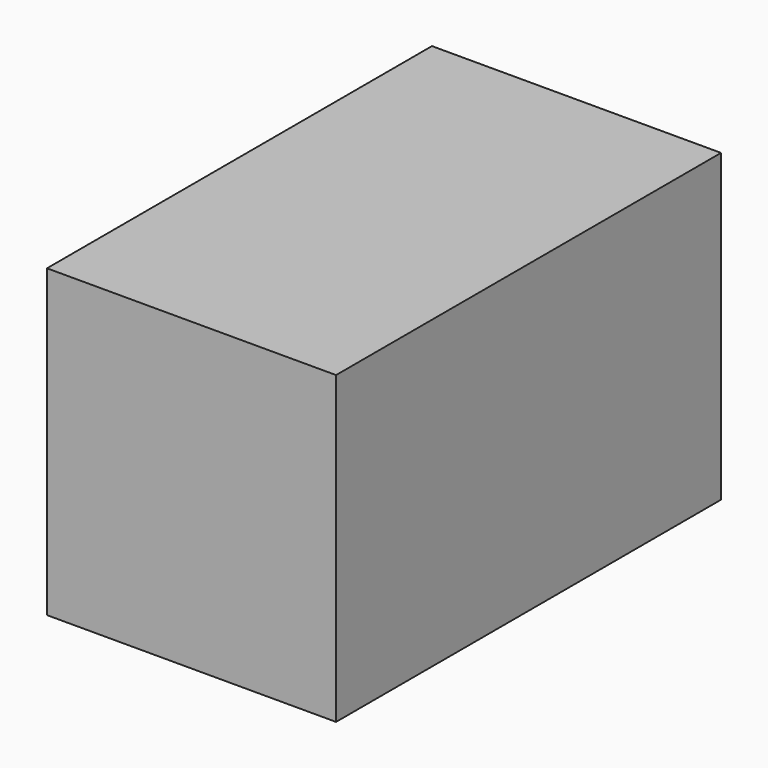
from build123d import *

# Parameters (mm, degrees)
F0_W     = 115.817476064
F0_H     = 99.370021373
F0_H_2   = 22.9579024017
F1_DEPTH = 192.786


with BuildPart() as f1:
    # F0 (on Front) → F1 (new body)
    with BuildSketch(Plane.XZ):
        with Locations((-3.7692058831, -25.52976273)):
            Rectangle(F0_W, F0_H)
        with BuildLine():
            Line((-48.9997006953, -68.0190101266), (-48.9997006953, 9.0784169734))
            Line((-48.9997006953, 9.0784169734), (-2.5179516699, 9.0784169734))
            ThreePointArc((-2.5179516699, 9.0784169734), (0, 9.1567427885), (2.5179516699, 9.0784169734))
            Line((2.5179516699, 9.0784169734), (41.4612852037, 9.0784169734))
            Line((41.4612852037, 9.0784169734), (41.4612852037, -68.0190101266))
            Line((41.4612852037, -68.0190101266), (17.231856384, -68.0190101266))
            ThreePointArc((17.231856384, -68.0190101266), (0, -71.8665511381), (-17.231856384, -68.0190101266))
            Line((-17.231856384, -68.0190101266), (-48.9997006953, -68.0190101266))
        make_face(mode=Mode.SUBTRACT)
        with BuildLine():
            Line((2.5179516699, 9.0784169734), (-2.5179516699, 9.0784169734))
            ThreePointArc((-2.5179516699, 9.0784169734), (-39.7934296825, -23.760399992), (-17.231856384, -68.0190101266))
            Line((-17.231856384, -68.0190101266), (17.231856384, -68.0190101266))
            ThreePointArc((17.231856384, -68.0190101266), (34.2000323248, -53.0701368161), (40.5116469633, -31.3549041748))
            ThreePointArc((40.5116469633, -31.3549041748), (29.5228717167, -3.6133543753), (2.5179516699, 9.0784169734))
        make_face()
        with BuildLine():
            ThreePointArc((-11.0932505569, 2.2391158249), (20.7262989795, -2.6836830938), (35.3782191137, -31.3549041748))
            ThreePointArc((35.3782191137, -31.3549041748), (34.4483019217, -39.4129983892), (31.7074361295, -47.0474782708))
            ThreePointArc((31.7074361295, -47.0474782708), (1.8548746816, -66.6844644265), (-29.8898603351, -50.2814632072))
            ThreePointArc((-29.8898603351, -50.2814632072), (-33.3092577231, -19.4338414036), (-11.0932505569, 2.2391158249))
        make_face(mode=Mode.SUBTRACT)
        with Locations((-3.7692058831, 35.6341991574)):
            Rectangle(F0_W, F0_H_2)
        with BuildLine():
            ThreePointArc((31.7074361295, -47.0474782708), (34.4483019217, -39.4129983892), (35.3782191137, -31.3549041748))
            ThreePointArc((35.3782191137, -31.3549041748), (20.7262989795, -2.6836830938), (-11.0932505569, 2.2391158249))
            Line((-11.0932505569, 2.2391158249), (-2.2843172928, -21.4441826822))
            ThreePointArc((-2.2843172928, -21.4441826822), (6.3327598935, -23.3964710294), (10.1705705837, -31.3549041748))
            ThreePointArc((10.1705705837, -31.3549041748), (9.903236934, -33.6714542452), (9.1152897252, -35.8662231864))
            Line((9.1152897252, -35.8662231864), (31.7074361295, -47.0474782708))
        make_face()
        with BuildLine():
            Line((-2.5179516699, 9.0784169734), (-48.9997006953, 9.0784169734))
            Line((-48.9997006953, 9.0784169734), (-48.9997006953, -68.0190101266))
            Line((-48.9997006953, -68.0190101266), (-17.231856384, -68.0190101266))
            ThreePointArc((-17.231856384, -68.0190101266), (-39.7934296825, -23.760399992), (-2.5179516699, 9.0784169734))
        make_face()
        with BuildLine():
            ThreePointArc((-29.8898603351, -50.2814632072), (1.8548746816, -66.6844644265), (31.7074361295, -47.0474782708))
            Line((31.7074361295, -47.0474782708), (8.0089741579, -37.6236232574))
            ThreePointArc((8.0089741579, -37.6236232574), (0.4803788306, -41.5141237402), (-7.3817295789, -38.3513728858))
            Line((-7.3817295789, -38.3513728858), (-29.8898603351, -50.2814632072))
        make_face()
        with BuildLine():
            Line((-3.7875579845, -21.915894136), (-11.0932505569, 2.2391158249))
            ThreePointArc((-11.0932505569, 2.2391158249), (-33.3092577231, -19.4338414036), (-29.8898603351, -50.2814632072))
            Line((-29.8898603351, -50.2814632072), (-8.592770973, -36.7959328464))
            ThreePointArc((-8.592770973, -36.7959328464), (-9.678430879, -28.2294471331), (-3.7875579845, -21.915894136))
        make_face()
        with BuildLine():
            Line((41.4612852037, 9.0784169734), (2.5179516699, 9.0784169734))
            ThreePointArc((2.5179516699, 9.0784169734), (29.5228717167, -3.6133543753), (40.5116469633, -31.3549041748))
            ThreePointArc((40.5116469633, -31.3549041748), (34.2000323248, -53.0701368161), (17.231856384, -68.0190101266))
            Line((17.231856384, -68.0190101266), (41.4612852037, -68.0190101266))
            Line((41.4612852037, -68.0190101266), (41.4612852037, 9.0784169734))
        make_face()
        with BuildLine():
            ThreePointArc((-2.2843172928, -21.4441826822), (-3.045085429, -21.6508864126), (-3.7875579845, -21.915894136))
            Line((-3.7875579845, -21.915894136), (-0.7828066425, -31.8505851838))
            Line((-0.7828066425, -31.8505851838), (0, -31.3549041748))
            Line((0, -31.3549041748), (9.1152897252, -35.8662231864))
            ThreePointArc((9.1152897252, -35.8662231864), (9.903236934, -33.6714542452), (10.1705705837, -31.3549041748))
            ThreePointArc((10.1705705837, -31.3549041748), (6.3327598935, -23.3964710294), (-2.2843172928, -21.4441826822))
        make_face()
        with BuildLine():
            Line((17.231856384, -68.0190101266), (-17.231856384, -68.0190101266))
            ThreePointArc((-17.231856384, -68.0190101266), (0, -71.8665511381), (17.231856384, -68.0190101266))
        make_face()
        with BuildLine():
            Line((-0.7828066425, -31.8505851838), (-3.7875579845, -21.915894136))
            ThreePointArc((-3.7875579845, -21.915894136), (-9.678430879, -28.2294471331), (-8.592770973, -36.7959328464))
            Line((-8.592770973, -36.7959328464), (-0.7828066425, -31.8505851838))
        make_face()
        with BuildLine():
            ThreePointArc((-7.3817295789, -38.3513728858), (0.4803788306, -41.5141237402), (8.0089741579, -37.6236232574))
            Line((8.0089741579, -37.6236232574), (0, -34.4388000667))
            Line((0, -34.4388000667), (-7.3817295789, -38.3513728858))
        make_face()
        with BuildLine():
            Line((8.0089741579, -37.6236232574), (31.7074361295, -47.0474782708))
            Line((31.7074361295, -47.0474782708), (9.1152897252, -35.8662231864))
            ThreePointArc((9.1152897252, -35.8662231864), (8.6071027145, -36.773233148), (8.0089741579, -37.6236232574))
        make_face()
        with BuildLine():
            Line((-8.592770973, -36.7959328464), (-29.8898603351, -50.2814632072))
            Line((-29.8898603351, -50.2814632072), (-7.3817295789, -38.3513728858))
            ThreePointArc((-7.3817295789, -38.3513728858), (-8.0250243239, -37.6030631516), (-8.592770973, -36.7959328464))
        make_face()
        with BuildLine():
            Line((0, -34.4388000667), (8.0089741579, -37.6236232574))
            ThreePointArc((8.0089741579, -37.6236232574), (8.6071027145, -36.773233148), (9.1152897252, -35.8662231864))
            Line((9.1152897252, -35.8662231864), (0, -31.3549041748))
            Line((0, -31.3549041748), (-0.7828066425, -31.8505851838))
            Line((-0.7828066425, -31.8505851838), (0, -34.4388000667))
        make_face()
        with BuildLine():
            Line((-0.7828066425, -31.8505851838), (-8.592770973, -36.7959328464))
            ThreePointArc((-8.592770973, -36.7959328464), (-8.0250243239, -37.6030631516), (-7.3817295789, -38.3513728858))
            Line((-7.3817295789, -38.3513728858), (0, -34.4388000667))
            Line((0, -34.4388000667), (-0.7828066425, -31.8505851838))
        make_face()
        with BuildLine():
            Line((-2.2843172928, -21.4441826822), (-11.0932505569, 2.2391158249))
            Line((-11.0932505569, 2.2391158249), (-3.7875579845, -21.915894136))
            ThreePointArc((-3.7875579845, -21.915894136), (-3.045085429, -21.6508864126), (-2.2843172928, -21.4441826822))
        make_face()
        with BuildLine():
            ThreePointArc((2.5179516699, 9.0784169734), (0, 9.1567427885), (-2.5179516699, 9.0784169734))
            Line((-2.5179516699, 9.0784169734), (2.5179516699, 9.0784169734))
        make_face()
    extrude(amount=-F1_DEPTH)


solid = f1.part
